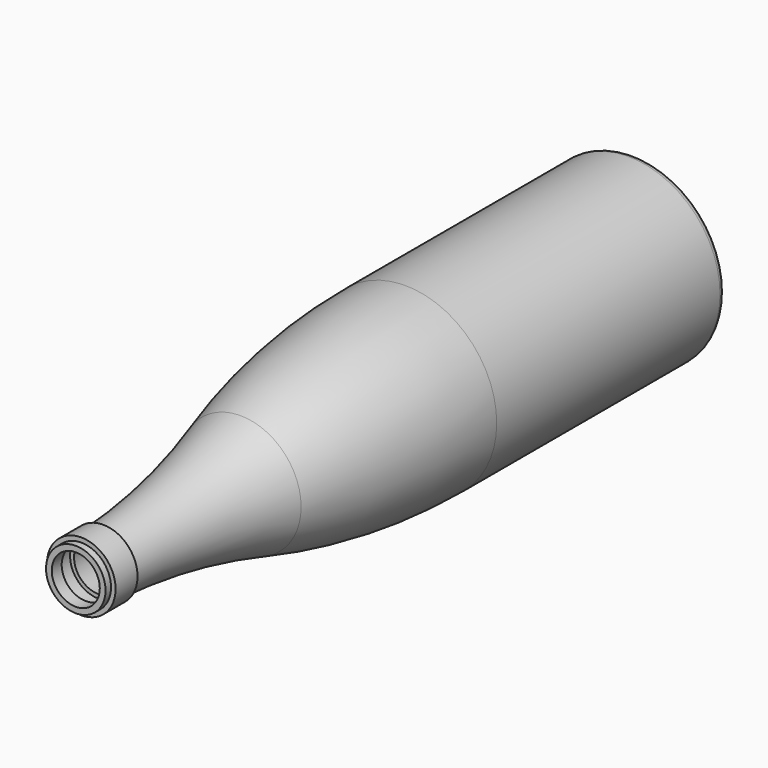
from build123d import *

# Parameters (mm, degrees)
F2_R = 3
F3_R = 3
F4_T = -2.5


with BuildPart() as f1:
    # F0 (on Top) → F1 (revolve)
    with BuildSketch(Plane.XY):
        with BuildLine():
            Line((0, -152.5), (13, -152.5))
            ThreePointArc((13, -152.5), (13.0036675913, -150.9999820654), (13.0146702775, -149.5))
            ThreePointArc((13.0146702775, -149.5), (13.1321083635, -143.4982763671), (13.3669676696, -137.5))
            ThreePointArc((13.3669676696, -137.5), (17.5974005317, -99.5909352327), (26.5, -62.5))
            ThreePointArc((26.5, -62.5), (36.6062262424, -18.0034339364), (40, 27.5))
            Line((40, 27.5), (40, 152.5))
            Line((40, 152.5), (33.6370356381, 152.5))
            ThreePointArc((33.6370356381, 152.5), (23.7849759987, 128.7150240013), (0, 118.8629643619))
            Line((0, 118.8629643619), (0, -152.5))
        make_face()
        with BuildLine():
            ThreePointArc((13.3669676696, -137.5), (13.1321083635, -143.4982763671), (13.0146702775, -149.5))
            Line((13.0146702775, -149.5), (15, -149.5))
            Line((15, -149.5), (15, -137.5))
            Line((15, -137.5), (13.3669676696, -137.5))
        make_face()
    revolve(axis=Axis((0, 0, 0), (0, -1, 0)))

    # F2
    f2_edges = [f1.edges().sort_by_distance(p)[0] for p in [
        (-40, 152.5, 0),
    ]]
    fillet(f2_edges, radius=F2_R)

    # F3
    f3_edges = [f1.edges().sort_by_distance(p)[0] for p in [
        (-33.637036, 152.5, 0),
    ]]
    fillet(f3_edges, radius=F3_R)

    # F4
    f4_openings = [f1.faces().sort_by_distance(p)[0] for p in [
        (0, -152.5, 0),
    ]]
    offset(amount=F4_T, openings=f4_openings, kind=Kind.INTERSECTION)


solid = f1.part
